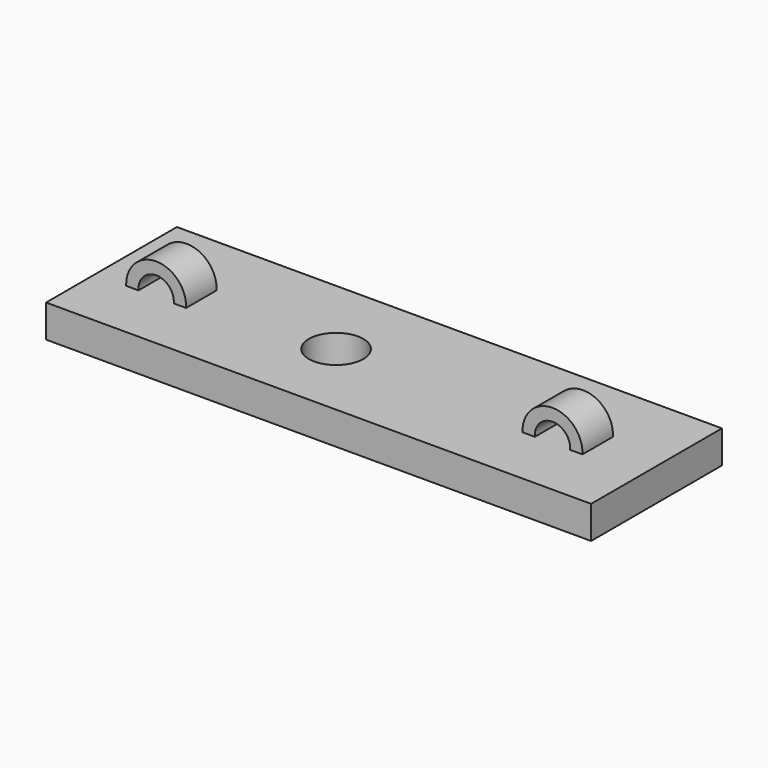
from build123d import *

# Parameters (mm, degrees)
F0_W     = 100
F0_H     = 30
F0_R     = 5
F1_DEPTH = 6
F2_R     = 5.5
F2_R_2   = 3.25
F3_DEPTH = 3.5


with BuildPart() as f1:
    # F0 (on Top) → F1 (new body)
    with BuildSketch(Plane.XY):
        with Locations((8.551151, 0.295531)):
            Rectangle(F0_W, F0_H)
        Circle(F0_R, mode=Mode.SUBTRACT)
        with Locations((8.551151, 0.295531)):
            Rectangle(F0_W, F0_H)
        Circle(F0_R, mode=Mode.SUBTRACT)
    extrude(amount=F1_DEPTH)

    # F2 (on Front) → F3 (join, symmetric)
    with BuildSketch(Plane.XZ):
        with Locations((-30.216829, 6.245195)):
            Circle(F2_R)
        with Locations((-30.216829, 6.245195)):
            Circle(F2_R_2, mode=Mode.SUBTRACT)
        with Locations((42.505713, 6.245195)):
            Circle(F2_R)
        with Locations((42.505713, 6.245195)):
            Circle(F2_R_2, mode=Mode.SUBTRACT)
    extrude(amount=F3_DEPTH, both=True)


solid = f1.part
